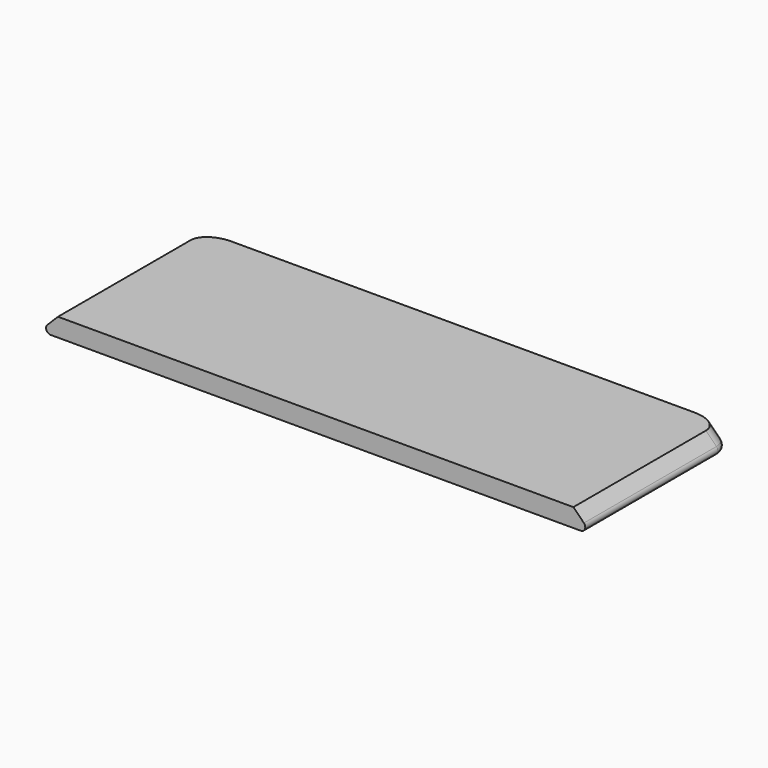
from build123d import *

# Parameters (mm, degrees)
EXTRUDE006_DEPTH = 20
FILLET025_R      = 2
FILLET026_R      = 0.5


with BuildPart() as part:
    # Sketch008 → Extrude006 (new body)
    with BuildSketch(Plane.XZ):
        Polygon((10.846248, 101.514289), (8.846248, 99.514289), (68.846248, 99.514289), (66.846248, 101.514289), align=None)
    extrude(amount=EXTRUDE006_DEPTH)


with BuildPart() as part_1:
    # Extrude006 placement: moved
    add(part.part.moved(Location((0.5, -6.5, -11.5))))

    # Fillet025
    fillet025_edges = [part_1.edges().sort_by_distance(p)[0] for p in [
        (10.346248, -6.5, 89.014289),
        (68.346248, -6.5, 89.014289),
    ]]
    fillet(fillet025_edges, radius=FILLET025_R)

    # Fillet026
    fillet026_edges = [part_1.edges().sort_by_distance(p)[0] for p in [
        (9.346248, -17.5, 88.014289),
        (69.346248, -17.5, 88.014289),
    ]]
    fillet(fillet026_edges, radius=FILLET026_R)


with BuildPart() as part_2:
    # Fillet026 placement: moved
    add(part_1.part.moved(Location((-0.5, -0.5, -0.25))))


solid = part_2.part
